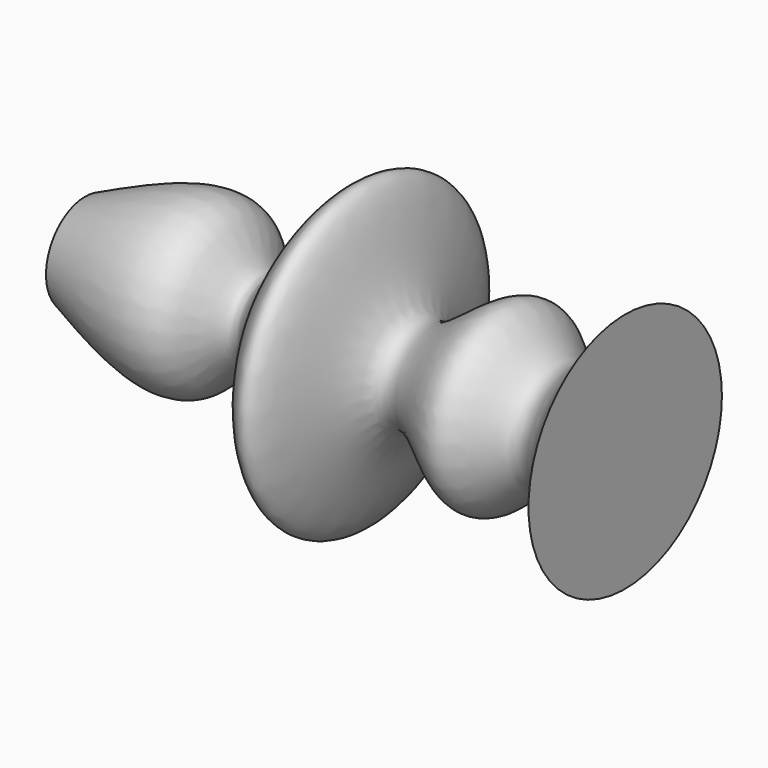
from build123d import *


with BuildPart() as f1:
    # F0 (on Top) → F1 (revolve)
    with BuildSketch(Plane.XY):
        with BuildLine():
            add(Edge.make_bspline(
                [(-67.7023380995, 10.7643883675), (-55.5930875339, 16.1989449672), (-35.7226253124, 25.1166852535), (-28.5104785282, -4.5153103954), (-2.6691274511, 55.0667052266), (0.7742426237, -4.6418191421), (25.2355861733, 28.7510525334), (36.1490608339, 4.6075486084), (45.8961783096, 18.799641392), (51.2724816799, 26.6276989132)],
                knots=[0, 0, 0, 0, 0.169688695, 0.2784476864, 0.4533047105, 0.6069299573, 0.7474514478, 0.8606995724, 1, 1, 1, 1], degree=3))
            Line((-67.7023380995, 10.7643883675), (-67.7023380995, 0))
            Line((-67.7023380995, 0), (51.2724816799, 0))
            Line((51.2724816799, 0), (51.2724816799, 26.6276989132))
        make_face()
    revolve(axis=Axis((-8.2149282098, 0, 0), (1, 0, 0)))


solid = f1.part
